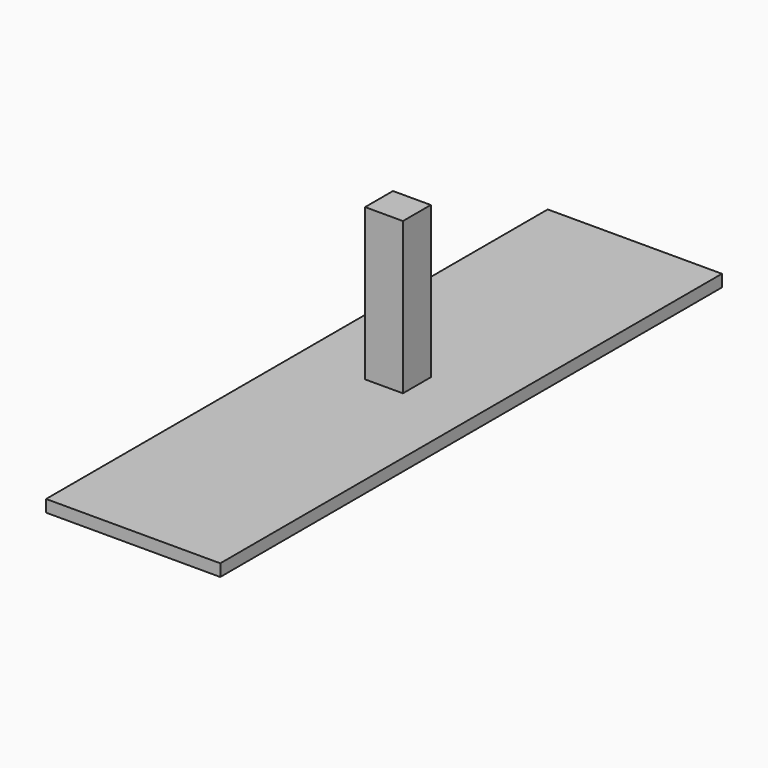
from build123d import *

# Parameters (mm, degrees)
F0_W     = 108.5759465883
F0_H     = 470
F1_DEPTH = 100
F3_DEPTH = 900


with BuildPart() as f1:
    # F0 (on Front) → F1 (new body)
    with BuildSketch(Plane.XZ):
        with Locations((-54.2879732942, 235)):
            Rectangle(F0_W, F0_H)
    extrude(amount=F1_DEPTH)

    # F2 (on face) → F3 (join, symmetric)
    with BuildSketch(Plane.XZ.offset(100)):
        Polygon((-304.2879732942, 0), (-54.2879732942, 0), (195.7120267058, 0), (195.7120267058, 34.6288345754), (-54.2879732942, 34.6288345754), (-304.2879732942, 34.6288345754), align=None)
    extrude(amount=F3_DEPTH, both=True)


solid = f1.part
